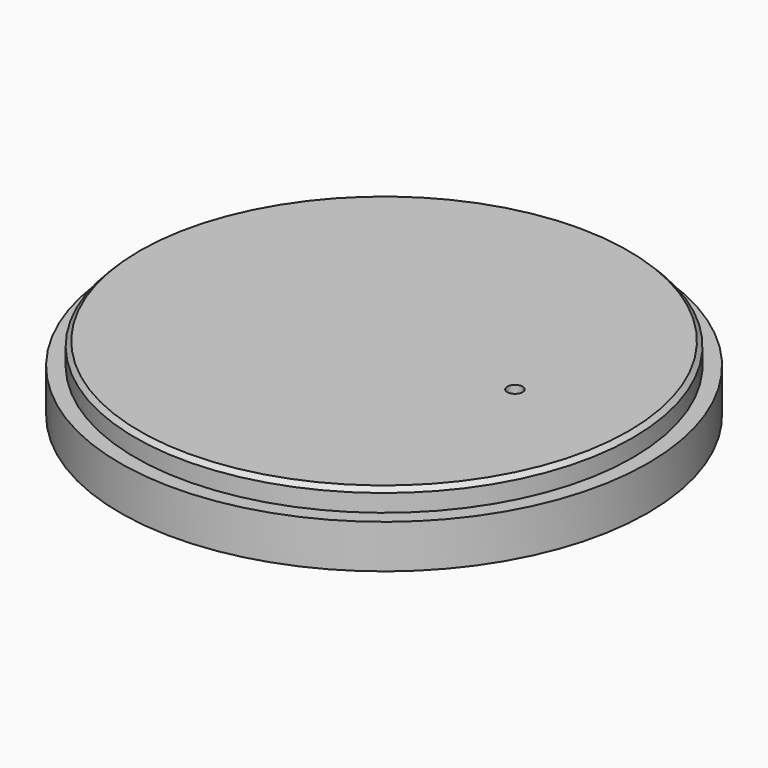
from build123d import *

# Parameters (mm, degrees)
SKETCH_R        = 57
PAD_DEPTH       = 5
SKETCH001_R     = 60.5
PAD001_DEPTH    = 10
CHAMFER_SIZE    = 1
SKETCH002_R     = 1.75
POCKET_DEPTH    = 15.001
SKETCH003_R     = 7.5
POCKET001_DEPTH = 8


with BuildPart() as part:
    # Sketch → Pad (new body)
    with BuildSketch(Plane.XY):
        Circle(SKETCH_R)
    extrude(amount=PAD_DEPTH)

    # Sketch001 (on Face2 of Pad) → Pad001 (join)
    with BuildSketch(Plane(origin=(0, 0, 0), x_dir=(1, 0, 0), z_dir=(0, 0, -1))):
        Circle(SKETCH001_R)
    extrude(amount=PAD001_DEPTH)

    # Chamfer
    chamfer_edges = [part.edges().sort_by_distance(p)[0] for p in [
        (-57, 0, 5),
    ]]
    chamfer(chamfer_edges, length=CHAMFER_SIZE)

    # Sketch002 (on Face4 of Chamfer) → Pocket (cut, through all)
    with BuildSketch(Plane.XY.offset(5)):
        with Locations((30, 0)):
            Circle(SKETCH002_R)
    extrude(amount=-POCKET_DEPTH, mode=Mode.SUBTRACT)

    # Sketch003 (on Face7 of Pocket) → Pocket001 (cut)
    with BuildSketch(Plane(origin=(0, 0, -10), x_dir=(1, 0, 0), z_dir=(0, 0, -1))):
        with Locations((30, 0)):
            Circle(SKETCH003_R)
    extrude(amount=-POCKET001_DEPTH, mode=Mode.SUBTRACT)


solid = part.part
